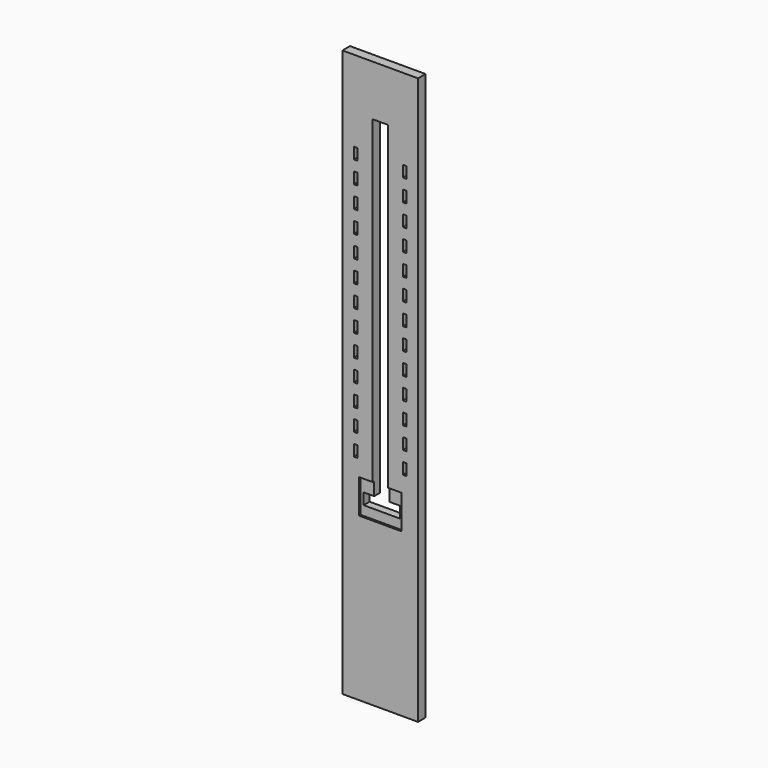
from build123d import *

# Parameters (mm, degrees)
F0_W     = 200
F0_H     = 1500
F0_W_2   = 10
F0_H_2   = 30
F1_DEPTH = 25
F2_DEPTH = 20


with BuildPart() as f1:
    # F0 (on Front) → F1 (new body)
    with BuildSketch(Plane.XZ):
        Rectangle(F0_W, F0_H)
        with Locations((-65, -172)):
            Rectangle(F0_W_2, F0_H_2, mode=Mode.SUBTRACT)
        with Locations((-65, -114.274818)):
            Rectangle(F0_W_2, F0_H_2, mode=Mode.SUBTRACT)
        with Locations((-65, -56.549635)):
            Rectangle(F0_W_2, F0_H_2, mode=Mode.SUBTRACT)
        with Locations((65, -172)):
            Rectangle(F0_W_2, F0_H_2, mode=Mode.SUBTRACT)
        with Locations((65, -114.274818)):
            Rectangle(F0_W_2, F0_H_2, mode=Mode.SUBTRACT)
        with Locations((65, -56.549635)):
            Rectangle(F0_W_2, F0_H_2, mode=Mode.SUBTRACT)
        with Locations((-65, 1.175547)):
            Rectangle(F0_W_2, F0_H_2, mode=Mode.SUBTRACT)
        with Locations((-65, 58.90073)):
            Rectangle(F0_W_2, F0_H_2, mode=Mode.SUBTRACT)
        with Locations((-65, 116.625912)):
            Rectangle(F0_W_2, F0_H_2, mode=Mode.SUBTRACT)
        with Locations((-65, 174.351094)):
            Rectangle(F0_W_2, F0_H_2, mode=Mode.SUBTRACT)
        with Locations((-65, 232.076277)):
            Rectangle(F0_W_2, F0_H_2, mode=Mode.SUBTRACT)
        with Locations((-65, 289.801459)):
            Rectangle(F0_W_2, F0_H_2, mode=Mode.SUBTRACT)
        with Locations((-65, 347.526642)):
            Rectangle(F0_W_2, F0_H_2, mode=Mode.SUBTRACT)
        with Locations((-65, 405.251824)):
            Rectangle(F0_W_2, F0_H_2, mode=Mode.SUBTRACT)
        with Locations((-65, 462.977007)):
            Rectangle(F0_W_2, F0_H_2, mode=Mode.SUBTRACT)
        with Locations((-65, 520.702189)):
            Rectangle(F0_W_2, F0_H_2, mode=Mode.SUBTRACT)
        Polygon((-56, -230), (-20, -230), (-20, 615.702189), (20, 615.702189), (20, -230), (56, -230), (56, -320), (-56, -320), align=None, mode=Mode.SUBTRACT)
        with Locations((65, 1.175547)):
            Rectangle(F0_W_2, F0_H_2, mode=Mode.SUBTRACT)
        with Locations((65, 58.90073)):
            Rectangle(F0_W_2, F0_H_2, mode=Mode.SUBTRACT)
        with Locations((65, 116.625912)):
            Rectangle(F0_W_2, F0_H_2, mode=Mode.SUBTRACT)
        with Locations((65, 174.351094)):
            Rectangle(F0_W_2, F0_H_2, mode=Mode.SUBTRACT)
        with Locations((65, 232.076277)):
            Rectangle(F0_W_2, F0_H_2, mode=Mode.SUBTRACT)
        with Locations((65, 289.801459)):
            Rectangle(F0_W_2, F0_H_2, mode=Mode.SUBTRACT)
        with Locations((65, 347.526642)):
            Rectangle(F0_W_2, F0_H_2, mode=Mode.SUBTRACT)
        with Locations((65, 405.251824)):
            Rectangle(F0_W_2, F0_H_2, mode=Mode.SUBTRACT)
        with Locations((65, 462.977007)):
            Rectangle(F0_W_2, F0_H_2, mode=Mode.SUBTRACT)
        with Locations((65, 520.702189)):
            Rectangle(F0_W_2, F0_H_2, mode=Mode.SUBTRACT)
    extrude(amount=F1_DEPTH)

    # F0 (on Front) → F2 (join)
    with BuildSketch(Plane.XZ):
        Polygon((-20, -265), (-20, -230), (-56, -230), (-56, -320), (56, -320), (56, -230), (20, -230), (20, -265), (48, -265), (48, -295), (-48, -295), (-48, -265), align=None)
    extrude(amount=F2_DEPTH)


solid = f1.part
